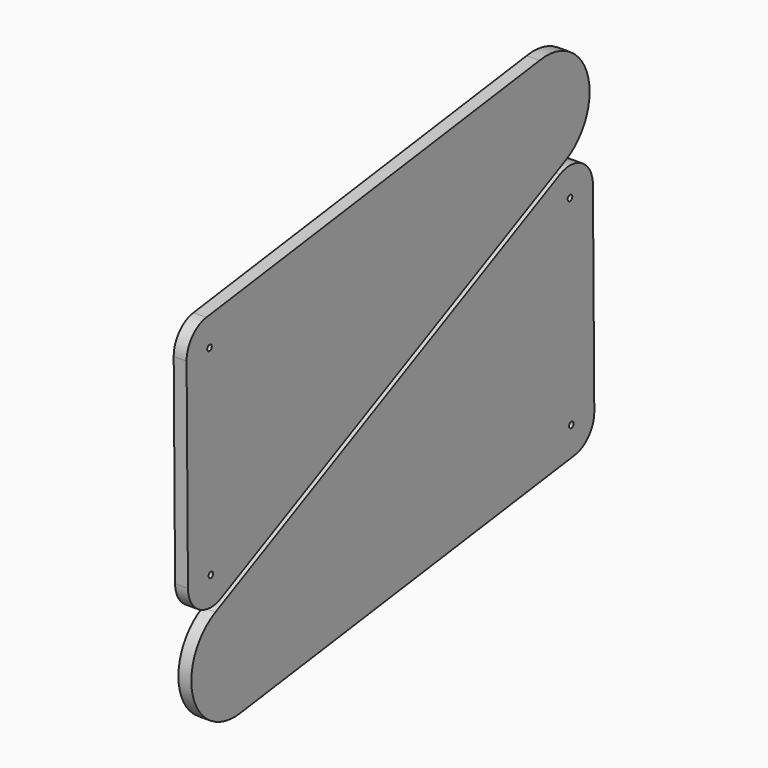
from build123d import *

# Parameters (mm, degrees)
F0_R     = 4
F1_DEPTH = 18


with BuildPart() as f1:
    # F0 (on Right) → F1 (new body)
    with BuildSketch(Plane.YZ):
        with BuildLine():
            Line((-42.106009, 280.223184), (-39.694908, -0.120823))
            ThreePointArc((-39.694908, -0.120823), (-20.738769, -33.794726), (17.856053, -35.719991))
            Line((17.856053, -35.719991), (619.082214, 257.881955))
            ThreePointArc((619.082214, 257.881955), (657.633017, 348.040201), (574.036223, 399.287149))
            Line((574.036223, 399.287149), (-7.519163, 319.855214))
            ThreePointArc((-7.519163, 319.855214), (-32.243412, 306.524076), (-42.106009, 280.223184))
        make_face()
        with Locations((0.303613, 0.223184)):
            Circle(F0_R, mode=Mode.SUBTRACT)
        with Locations((-2.106009, 280.223184)):
            Circle(F0_R, mode=Mode.SUBTRACT)
        with BuildLine():
            Line((669.407956, -71.213742), (666.996855, 209.130266))
            ThreePointArc((666.996855, 209.130266), (648.040716, 242.804168), (609.445894, 244.729433))
            Line((609.445894, 244.729433), (8.219732, -48.872513))
            ThreePointArc((8.219732, -48.872513), (-30.33107, -139.030759), (53.265724, -190.277707))
            Line((53.265724, -190.277707), (634.82111, -110.845772))
            ThreePointArc((634.82111, -110.845772), (659.545359, -97.514634), (669.407956, -71.213742))
        make_face()
        with Locations((629.407956, -71.213742)):
            Circle(F0_R, mode=Mode.SUBTRACT)
        with Locations((626.998334, 208.786258)):
            Circle(F0_R, mode=Mode.SUBTRACT)
    extrude(amount=F1_DEPTH)


solid = f1.part
